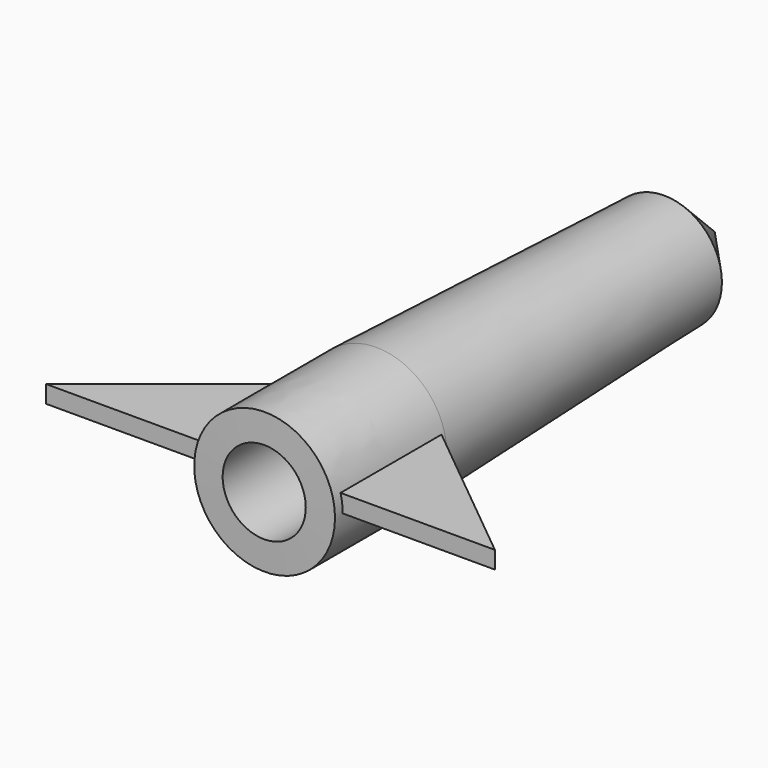
from build123d import *

# Parameters (mm, degrees)
F3_DEPTH = 4.572
F4_R     = 10.922
F5_DEPTH = 88.392


with BuildPart() as f1:
    # F0 (on Top) → F1 (revolve)
    with BuildSketch(Plane.XY):
        Polygon((-19.2241743207, 52.9774539173), (-34.4217829406, 69.6123968682), (-34.360922873, -78.7533447146), (-15.8556289971, -78.3891752362), (-15.8556289971, -41.6480451822), align=None)
    revolve(axis=Axis((-34.3913529068, -4.5704739232, 0), (0.0004102029, -0.9999999159, 0)))

    # F2 (on Top) → F3 (join)
    with BuildSketch(Plane.XY):
        Polygon((-52.7703391896, -75.8608434159), (-52.4374330146, -42.6783543754), (-93.8421391896, -75.8608434159), align=None)
        Polygon((24.1632689069, -75.8608434159), (-16.9141878514, -42.2792753768), (-16.9141878514, -75.8608434159), align=None)
    extrude(amount=F3_DEPTH)

    # F4 (on Front) → F5 (cut)
    with BuildSketch(Plane.XZ):
        with Locations((-34.3477502465, 0)):
            Circle(F4_R)
    extrude(amount=F5_DEPTH, mode=Mode.SUBTRACT)


solid = f1.part
